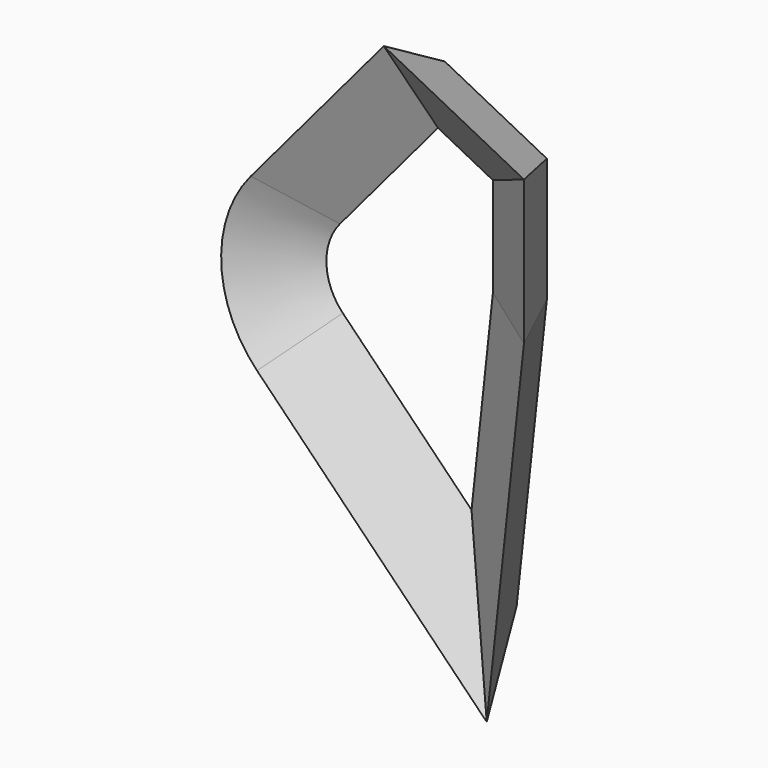
from build123d import *


with BuildPart() as f2:
    # F2: sweep along a path in F1
    with BuildLine(Plane.XZ) as f2_path:
        Line((0, 0), (0, 50.7971271873))
        Line((0, 50.7971271873), (-43.1399196386, 72.9165449739))
        Line((-43.1399196386, 72.9165449739), (-90.9753785277, 16.1548483209))
        ThreePointArc((-90.9753785277, 16.1548483209), (-100.3607226238, -11.1131320772), (-88.9698324182, -37.6060567764))
        Line((-88.9698324182, -37.6060567764), (-12.4816746493, -115.7265843466))
        Line((-12.4816746493, -115.7265843466), (0, 0))
    # F0 (on Top) → F2 (sweep)
    with BuildSketch(Plane.XY):
        Polygon((10.2172587067, -6.4580785111), (-1.9277846441, 20.1453492045), (-16.9645044953, 12.0486542583), align=None)
    sweep(path=f2_path.line, transition=Transition.RIGHT)


solid = f2.part
